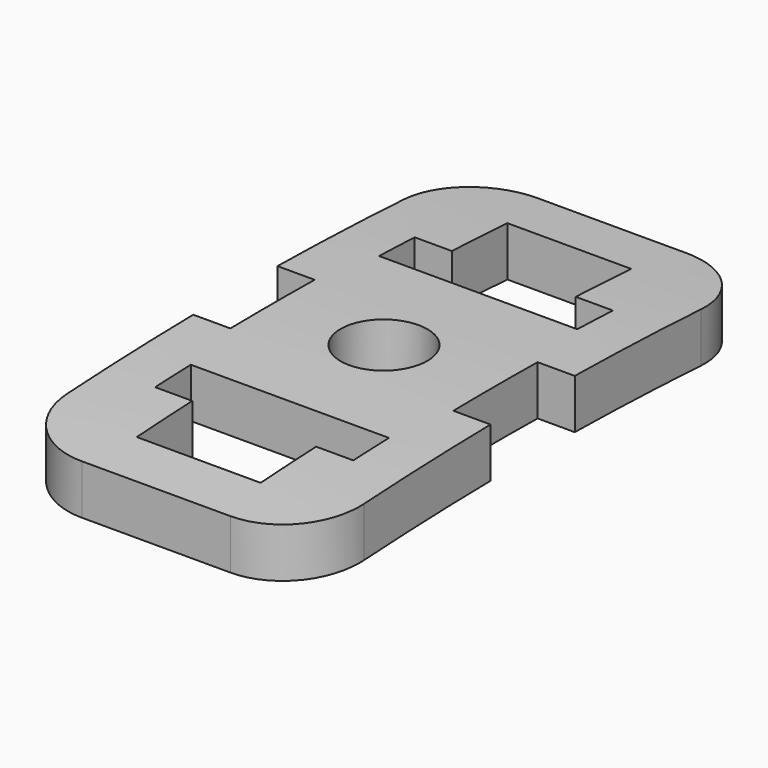
from build123d import *

# Parameters (mm, degrees)
F0_R          = 1.75
F1_DEPTH      = 5
F1_DEPTH_BACK = 5
F3_DEPTH      = 10
F3_DEPTH_BACK = 10


with BuildPart() as f1:
    # F0 (on Top) → F1 (new body, two sides)
    with BuildSketch(Plane.XY) as f1_sk:
        with BuildLine():
            Line((-4.5, 2.125), (-4.5, 0))
            Line((-4.5, 0), (-4.5, -2.125))
            Line((-4.5, -2.125), (-6, -2.125))
            Line((-6, -2.125), (-6, -8.5))
            ThreePointArc((-6, -8.5), (-5.1213203436, -10.6213203436), (-3, -11.5))
            Line((-3, -11.5), (0, -11.5))
            Line((0, -11.5), (3, -11.5))
            ThreePointArc((3, -11.5), (5.1213203436, -10.6213203436), (6, -8.5))
            Line((6, -8.5), (6, -2.125))
            Line((6, -2.125), (4.5, -2.125))
            Line((4.5, -2.125), (4.5, 0))
            Line((4.5, 0), (4.5, 2.125))
            Line((4.5, 2.125), (6, 2.125))
            Line((6, 2.125), (6, 8.5))
            ThreePointArc((6, 8.5), (5.1213203436, 10.6213203436), (3, 11.5))
            Line((3, 11.5), (0, 11.5))
            Line((0, 11.5), (-3, 11.5))
            ThreePointArc((-3, 11.5), (-5.1213203436, 10.6213203436), (-6, 8.5))
            Line((-6, 8.5), (-6, 2.125))
            Line((-6, 2.125), (-4.5, 2.125))
        make_face()
        Polygon((0, -4.75), (4, -4.75), (4, -6.55), (2.5, -6.55), (2.5, -9.35), (0, -9.35), (-2.5, -9.35), (-2.5, -6.55), (-4, -6.55), (-4, -4.75), align=None, mode=Mode.SUBTRACT)
        Circle(F0_R, mode=Mode.SUBTRACT)
        Polygon((0, 4.75), (-4, 4.75), (-4, 6.55), (-2.5, 6.55), (-2.5, 9.35), (0, 9.35), (2.5, 9.35), (2.5, 6.55), (4, 6.55), (4, 4.75), align=None, mode=Mode.SUBTRACT)
    extrude(amount=F1_DEPTH)
    extrude(f1_sk.sketch, amount=-F1_DEPTH_BACK)

    # F2 (on Right) → F3 (cut, two sides)
    with BuildSketch(Plane.YZ) as f3_sk:
        with BuildLine():
            ThreePointArc((-39.3404948556, -3.1792744041), (0, 2), (39.3404948556, -3.1792744041))
            Line((39.3404948556, -3.1792744041), (39.3404948556, 12))
            Line((39.3404948556, 12), (-39.3404948556, 12))
            Line((-39.3404948556, 12), (-39.3404948556, -3.1792744041))
        make_face()
        with BuildLine():
            Line((0, -150), (38.8228567654, -5.1111260566))
            ThreePointArc((38.8228567654, -5.1111260566), (0, 0), (-38.8228567654, -5.1111260566))
            Line((-38.8228567654, -5.1111260566), (0, -150))
        make_face()
    extrude(amount=-F3_DEPTH, mode=Mode.SUBTRACT)
    extrude(f3_sk.sketch, amount=F3_DEPTH_BACK, mode=Mode.SUBTRACT)


solid = f1.part
